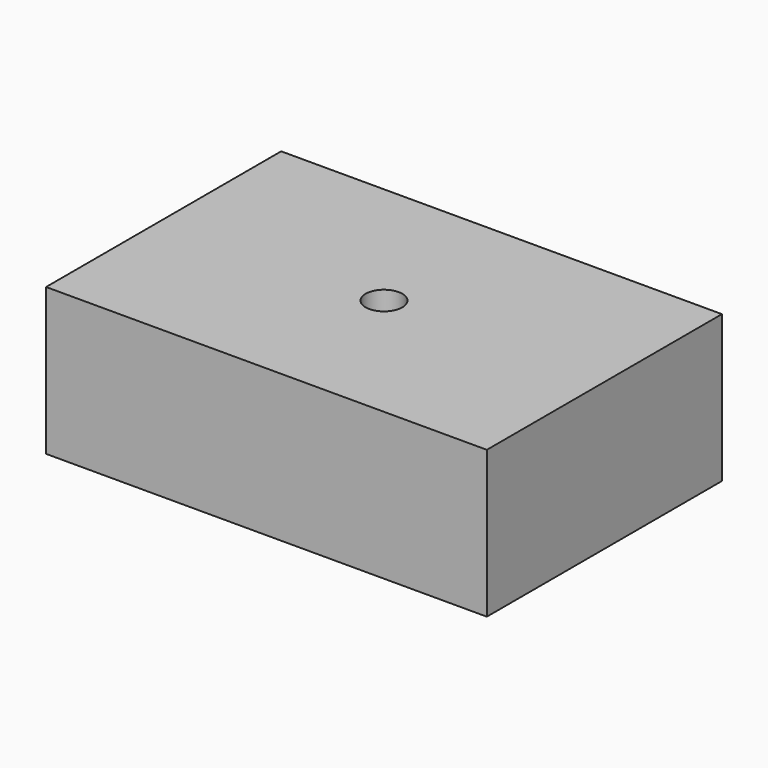
from build123d import *

# Parameters (mm, degrees)
F0_W     = 101.6
F0_H     = 50.8
F1_DEPTH = 152.4
F2_R     = 6.35
F3_DEPTH = 50.8


with BuildPart() as f1:
    # F0 (on Right) → F1 (new body)
    with BuildSketch(Plane.YZ):
        with Locations((50.8, 25.4)):
            Rectangle(F0_W, F0_H)
    extrude(amount=F1_DEPTH)

    # F2 (on face) → F3 (cut)
    with BuildSketch(Plane(origin=(0, 0, 0), x_dir=(1, 0, 0), z_dir=(0, 0, -1))):
        with Locations((76.2, -50.8)):
            Circle(F2_R)
    extrude(amount=-F3_DEPTH, mode=Mode.SUBTRACT)


solid = f1.part
